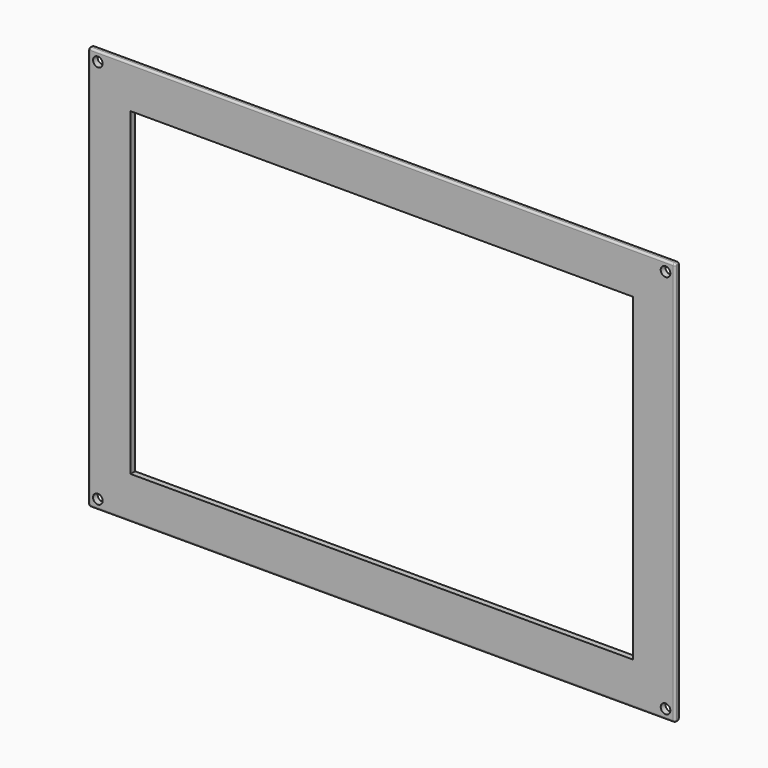
from build123d import *

# Parameters (mm, degrees)
F0_W     = 305
F0_H     = 210
F0_W_2   = 261
F0_H_2   = 166
F1_DEPTH = 3
F2_R     = 1
F3_R     = 1
F4_R     = 2.5
F5_DEPTH = 3


with BuildPart() as f1:
    # F0 (on Front) → F1 (new body)
    with BuildSketch(Plane.XZ):
        Rectangle(F0_W, F0_H)
        Rectangle(F0_W_2, F0_H_2, mode=Mode.SUBTRACT)
    extrude(amount=F1_DEPTH)

    # F2
    f2_edges = [f1.edges().sort_by_distance(p)[0] for p in [
        (-152.5, -1.5, 105),
        (-152.5, -1.5, -105),
        (152.5, -1.5, -105),
        (152.5, -1.5, 105),
    ]]
    fillet(f2_edges, radius=F2_R)

    # F3
    f3_edges = [f1.edges().sort_by_distance(p)[0] for p in [
        (0, -3, -105),
        (0, 0, -105),
    ]]
    fillet(f3_edges, radius=F3_R)

    # F4 (on face) → F5 (cut, through all)
    with BuildSketch(Plane.XZ.offset(3)):
        with Locations((-147.5, 100)):
            Circle(F4_R)
        with Locations((147.5, 100)):
            Circle(F4_R)
        with Locations((147.5, -100)):
            Circle(F4_R)
        with Locations((-147.5, -100)):
            Circle(F4_R)
    extrude(amount=-F5_DEPTH, mode=Mode.SUBTRACT)


solid = f1.part
